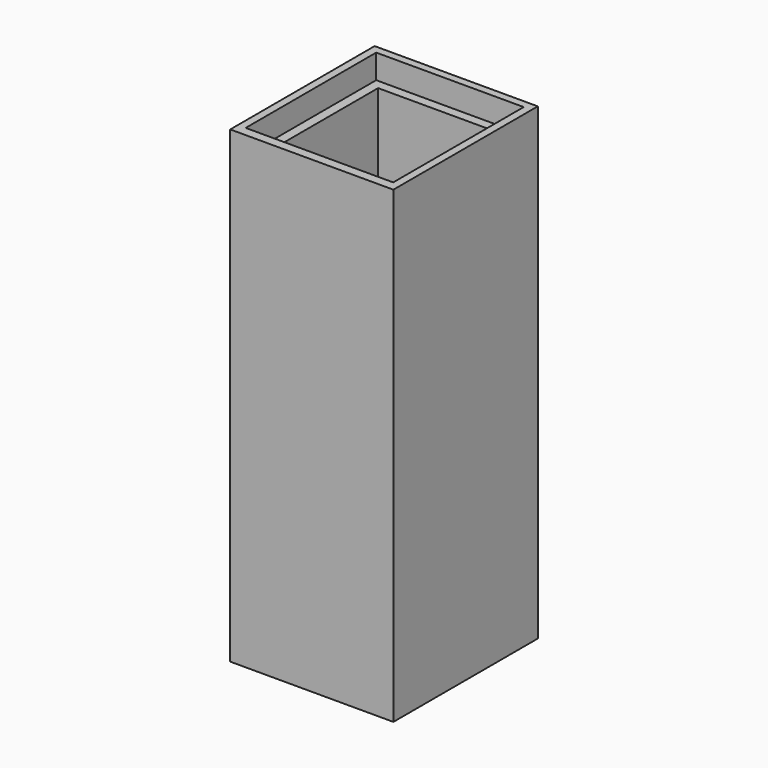
from build123d import *

# Parameters (mm, degrees)
SKETCH110_W     = 47
SKETCH110_H     = 52
SKETCH110_W_2   = 37
SKETCH110_H_2   = 42
PAD057_DEPTH    = 135
SKETCH111_W     = 42.5
SKETCH111_H     = 47
POCKET049_DEPTH = 7
SKETCH117_W     = 23
SKETCH117_H     = 2.25
POCKET_DEPTH    = 15


with BuildPart() as part:
    # Sketch110 → Pad057 (new body)
    with BuildSketch(Plane.XY):
        with Locations((0, -26)):
            Rectangle(SKETCH110_W, SKETCH110_H)
        with Locations((0, -26)):
            Rectangle(SKETCH110_W_2, SKETCH110_H_2, mode=Mode.SUBTRACT)
    extrude(amount=PAD057_DEPTH)

    # Sketch111 (on Face10 of Pad057) → Pocket049 (cut)
    with BuildSketch(Plane.XY.offset(135)):
        with Locations((0, -25.75)):
            Rectangle(SKETCH111_W, SKETCH111_H)
    extrude(amount=-POCKET049_DEPTH, mode=Mode.SUBTRACT)

    # Sketch117 (on Face15 of Pocket049) → Pocket (cut)
    with BuildSketch(Plane.XY.offset(128)):
        with Locations((0, -48.125)):
            Rectangle(SKETCH117_W, SKETCH117_H)
    extrude(amount=-POCKET_DEPTH, mode=Mode.SUBTRACT)


solid = part.part
